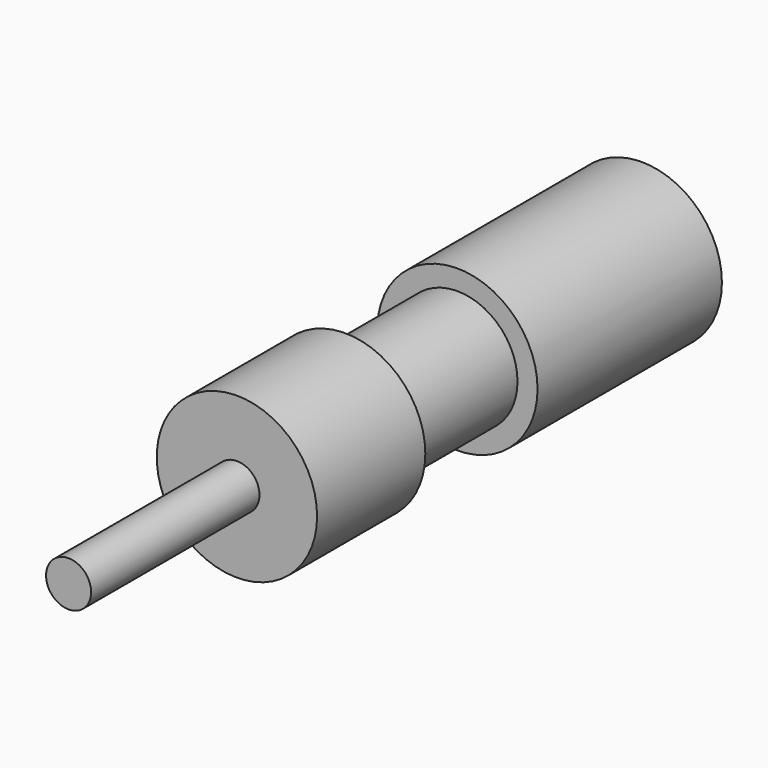
from build123d import *

# Parameters (mm, degrees)
TUBE001_R               = 10
TUBE001_R_2             = 6
TUBE001_DEPTH           = 14
SKETCH083_R             = 8
PAD059_DEPTH            = 50.5
SKETCH277_R             = 2.25
PAD114_DEPTH            = 5
SKETCH284_R             = 2.25
PAD119_DEPTH            = 21
BODY035_PLACEMENT_ANGLE = 180


with BuildPart() as tube001:
    # Tube001 → Tube001 (new body)
    with BuildSketch(Plane(origin=(-76, 7, 1), x_dir=(1, 0, 0), z_dir=(0, -1, 0))):
        Circle(TUBE001_R)
        Circle(TUBE001_R_2, mode=Mode.SUBTRACT)
    extrude(amount=TUBE001_DEPTH)


with BuildPart() as cut:
    # Sketch083 → Pad059 (new body)
    with BuildSketch(Plane.XZ):
        Circle(SKETCH083_R)
    extrude(amount=-PAD059_DEPTH)

    # Sketch277 (on Face2 of Pad059) → Pad114 (join)
    with BuildSketch(Plane.XZ):
        Circle(SKETCH277_R)
    extrude(amount=PAD114_DEPTH)

    # Sketch284 (on Face3 of Pad114) → Pad119 (join)
    with BuildSketch(Plane(origin=(0, 50.5, 0), x_dir=(1, 0, 0), z_dir=(0, 1, 0))):
        Circle(SKETCH284_R)
    extrude(amount=PAD119_DEPTH)


with BuildPart() as cut_1:
    # Body035 placement: moved
    add(cut.part.moved(Location((-76, 30, 1))).rotate(Axis((-76, 30, 1), (1, 0, 0)), BODY035_PLACEMENT_ANGLE))

    # Cut: cut Tube001
    add(tube001.part, mode=Mode.SUBTRACT)


solid = cut_1.part
